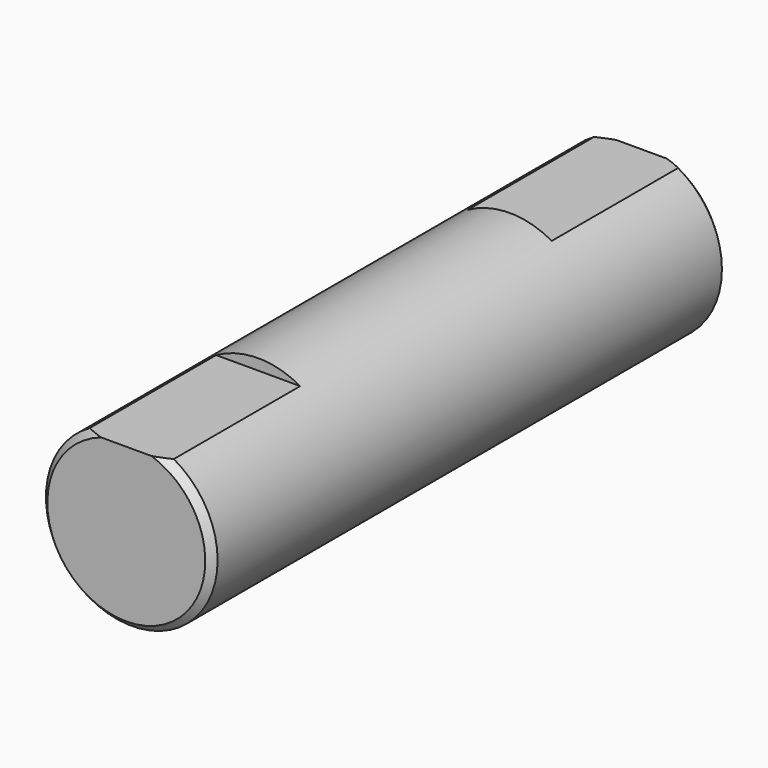
from build123d import *

# Parameters (mm, degrees)
F0_R     = 3.175
F1_DEPTH = 23.8252
F3_DEPTH = 6.096
F5_DEPTH = 6.096
F6_SIZE  = 0.254


with BuildPart() as f1:
    # F0 (on Front) → F1 (new body)
    with BuildSketch(Plane.XZ):
        Circle(F0_R)
    extrude(amount=F1_DEPTH)

    # F2 (on face) → F3 (cut)
    with BuildSketch(Plane(origin=(0, 0, 0), x_dir=(-1, 0, 0), z_dir=(0, 1, 0))):
        with BuildLine():
            ThreePointArc((1.554181, 2.7686), (0, 3.175), (-1.554181, 2.7686))
            Line((-1.554181, 2.7686), (1.554181, 2.7686))
        make_face()
    extrude(amount=-F3_DEPTH, mode=Mode.SUBTRACT)

    # F4 (on face) → F5 (cut)
    with BuildSketch(Plane.XZ.offset(23.8252)):
        with BuildLine():
            ThreePointArc((1.554181, 2.7686), (0, 3.175), (-1.554181, 2.7686))
            Line((-1.554181, 2.7686), (1.554181, 2.7686))
        make_face()
    extrude(amount=-F5_DEPTH, mode=Mode.SUBTRACT)

    # F6
    f6_edges = [f1.edges().sort_by_distance(p)[0] for p in [
        (-1.604073, 0, -2.739995),
        (-1.604073, -23.8252, -2.739995),
    ]]
    chamfer(f6_edges, length=F6_SIZE)


solid = f1.part
